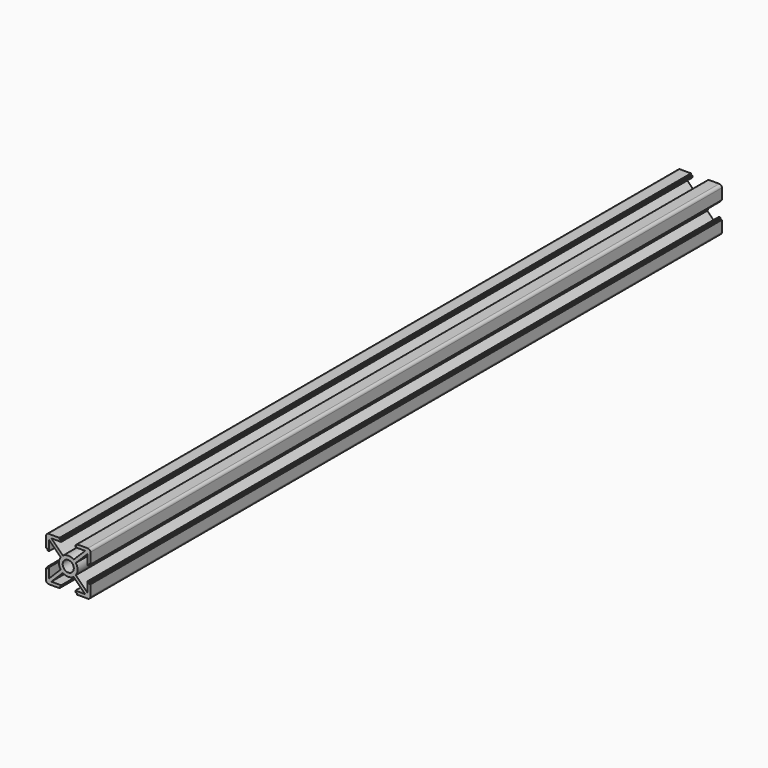
from build123d import *

# Parameters (mm, degrees)
F0_R     = 2.5
F1_DEPTH = 356


with BuildPart() as f1:
    # F0 (on Front) → F1 (new body)
    with BuildSketch(Plane.XZ):
        with BuildLine():
            Line((-50.15593, 47.812752), (-44.979215, 42.636037))
            ThreePointArc((-44.979215, 42.636037), (-45.75593, 40.202701), (-44.979215, 37.769366))
            Line((-44.979215, 37.769366), (-50.15593, 32.592651))
            Line((-50.15593, 32.592651), (-50.15593, 37.002701))
            Line((-50.15593, 37.002701), (-50.949922, 37.002701))
            Line((-50.949922, 37.002701), (-50.949922, 36.252701))
            Line((-50.949922, 36.252701), (-51.55593, 36.252701))
            Line((-51.55593, 36.252701), (-51.55593, 31.402701))
            ThreePointArc((-51.55593, 31.402701), (-51.204458, 30.554173), (-50.35593, 30.202701))
            Line((-50.35593, 30.202701), (-45.50593, 30.202701))
            Line((-45.50593, 30.202701), (-45.50593, 30.808709))
            Line((-45.50593, 30.808709), (-44.75593, 30.808709))
            Line((-44.75593, 30.808709), (-44.75593, 31.602701))
            Line((-44.75593, 31.602701), (-49.16598, 31.602701))
            Line((-49.16598, 31.602701), (-43.989265, 36.779416))
            ThreePointArc((-43.989265, 36.779416), (-41.55593, 36.002701), (-39.122595, 36.779416))
            Line((-39.122595, 36.779416), (-33.945879, 31.602701))
            Line((-33.945879, 31.602701), (-38.35593, 31.602701))
            Line((-38.35593, 31.602701), (-38.35593, 30.808709))
            Line((-38.35593, 30.808709), (-37.60593, 30.808709))
            Line((-37.60593, 30.808709), (-37.60593, 30.202701))
            Line((-37.60593, 30.202701), (-32.75593, 30.202701))
            ThreePointArc((-32.75593, 30.202701), (-31.907402, 30.554173), (-31.55593, 31.402701))
            Line((-31.55593, 31.402701), (-31.55593, 36.252701))
            Line((-31.55593, 36.252701), (-32.161938, 36.252701))
            Line((-32.161938, 36.252701), (-32.161938, 37.002701))
            Line((-32.161938, 37.002701), (-32.95593, 37.002701))
            Line((-32.95593, 37.002701), (-32.95593, 32.592651))
            Line((-32.95593, 32.592651), (-38.132645, 37.769366))
            ThreePointArc((-38.132645, 37.769366), (-37.35593, 40.202701), (-38.132645, 42.636037))
            Line((-38.132645, 42.636037), (-32.95593, 47.812752))
            Line((-32.95593, 47.812752), (-32.95593, 43.402701))
            Line((-32.95593, 43.402701), (-32.161938, 43.402701))
            Line((-32.161938, 43.402701), (-32.161938, 44.152701))
            Line((-32.161938, 44.152701), (-31.55593, 44.152701))
            Line((-31.55593, 44.152701), (-31.55593, 49.002701))
            ThreePointArc((-31.55593, 49.002701), (-31.907402, 49.851229), (-32.75593, 50.202701))
            Line((-32.75593, 50.202701), (-37.60593, 50.202701))
            Line((-37.60593, 50.202701), (-37.60593, 49.596693))
            Line((-37.60593, 49.596693), (-38.35593, 49.596693))
            Line((-38.35593, 49.596693), (-38.35593, 48.802701))
            Line((-38.35593, 48.802701), (-33.945879, 48.802701))
            Line((-33.945879, 48.802701), (-39.122595, 43.625986))
            ThreePointArc((-39.122595, 43.625986), (-41.55593, 44.402701), (-43.989265, 43.625986))
            Line((-43.989265, 43.625986), (-49.16598, 48.802701))
            Line((-49.16598, 48.802701), (-44.75593, 48.802701))
            Line((-44.75593, 48.802701), (-44.75593, 49.596693))
            Line((-44.75593, 49.596693), (-45.50593, 49.596693))
            Line((-45.50593, 49.596693), (-45.50593, 50.202701))
            Line((-45.50593, 50.202701), (-50.35593, 50.202701))
            ThreePointArc((-50.35593, 50.202701), (-51.204458, 49.851229), (-51.55593, 49.002701))
            Line((-51.55593, 49.002701), (-51.55593, 44.152701))
            Line((-51.55593, 44.152701), (-50.949922, 44.152701))
            Line((-50.949922, 44.152701), (-50.949922, 43.402701))
            Line((-50.949922, 43.402701), (-50.15593, 43.402701))
            Line((-50.15593, 43.402701), (-50.15593, 47.812752))
        make_face()
        with Locations((-41.55593, 40.202701)):
            Circle(F0_R, mode=Mode.SUBTRACT)
    extrude(amount=-F1_DEPTH)


solid = f1.part
